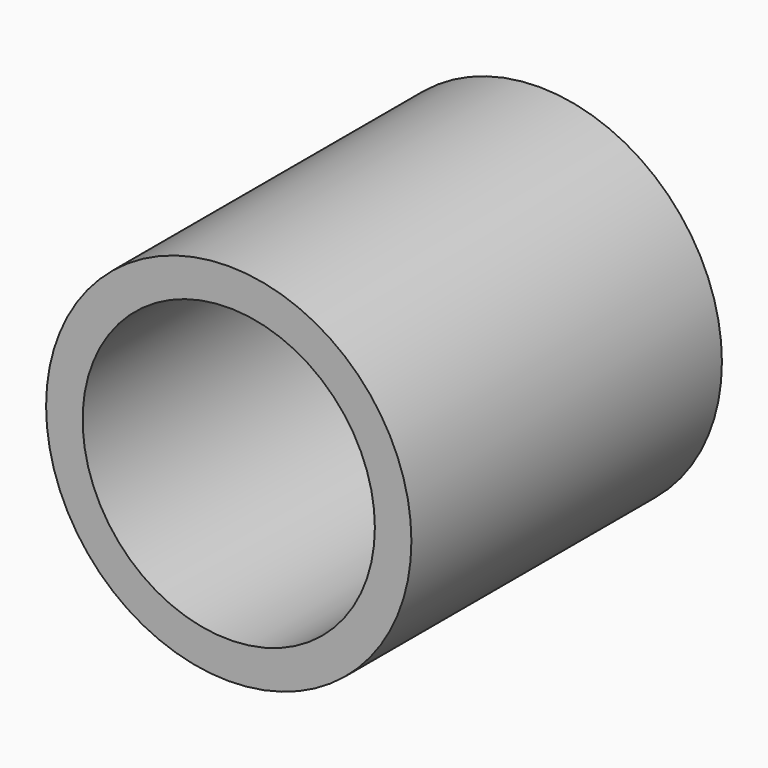
from build123d import *

# Parameters (mm, degrees)
CYLINDER235_R     = 3.2
CYLINDER235_DEPTH = 16
CYLINDER234_R     = 4
CYLINDER234_DEPTH = 8.5


with BuildPart() as cylinder235:
    # Cylinder235 → Cylinder235 (new body)
    with BuildSketch(Plane(origin=(129.6, -9.8, 61.3), x_dir=(1, 0, 0), z_dir=(0, 1, 0))):
        Circle(CYLINDER235_R)
    extrude(amount=CYLINDER235_DEPTH)


with BuildPart() as cut278:
    # Cylinder234 → Cylinder234 (new body)
    with BuildSketch(Plane(origin=(129.6, -7.8, 61.3), x_dir=(1, 0, 0), z_dir=(0, 1, 0))):
        Circle(CYLINDER234_R)
    extrude(amount=CYLINDER234_DEPTH)

    # Cut278: cut Cylinder235
    add(cylinder235.part, mode=Mode.SUBTRACT)


solid = cut278.part
